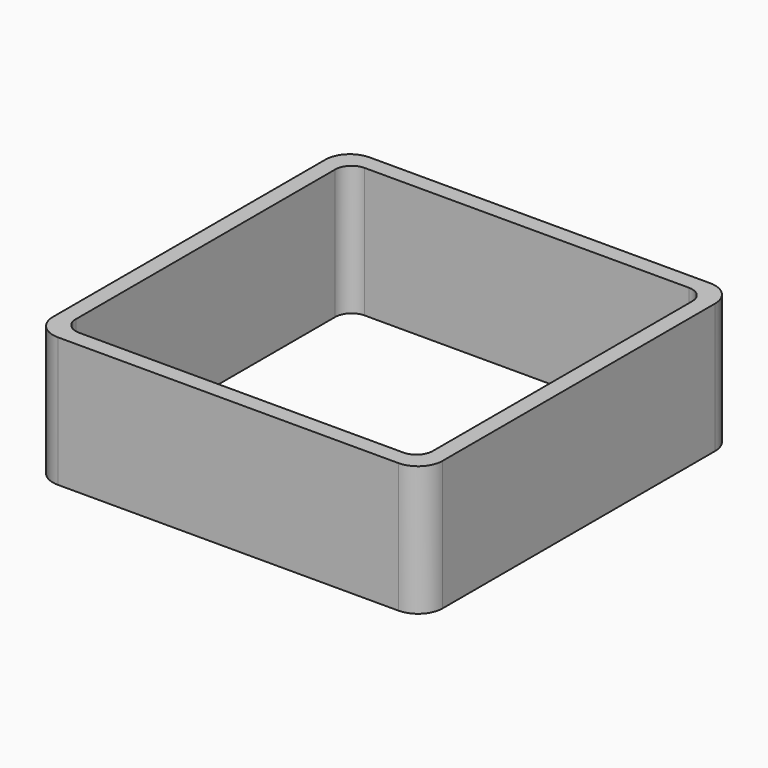
from build123d import *

# Parameters (mm, degrees)
EXTRUDE_DEPTH = 50


with BuildPart() as part:
    # Sketch → Extrude (new body)
    with BuildSketch(Plane.XY):
        with BuildLine():
            Line((-65.55, 75), (65.55, 75))
            ThreePointArc((75, 65.55), (72.232159, 72.232159), (65.55, 75))
            Line((75, 65.55), (75, -65.55))
            ThreePointArc((65.55, -75), (72.232159, -72.232159), (75, -65.55))
            Line((65.55, -75), (-65.55, -75))
            ThreePointArc((-75, -65.55), (-72.232159, -72.232159), (-65.55, -75))
            Line((-75, -65.55), (-75, 65.55))
            ThreePointArc((-65.55, 75), (-72.232159, 72.232159), (-75, 65.55))
        make_face()
        with BuildLine():
            Line((-62.4, 68.7), (62.4, 68.7))
            ThreePointArc((68.7, 62.4), (66.854773, 66.854773), (62.4, 68.7))
            Line((68.7, 62.4), (68.7, -62.4))
            ThreePointArc((62.4, -68.7), (66.854773, -66.854773), (68.7, -62.4))
            Line((62.4, -68.7), (-62.4, -68.7))
            ThreePointArc((-68.7, -62.4), (-66.854773, -66.854773), (-62.4, -68.7))
            Line((-68.7, -62.4), (-68.7, 62.4))
            ThreePointArc((-62.4, 68.7), (-66.854773, 66.854773), (-68.7, 62.4))
        make_face(mode=Mode.SUBTRACT)
    extrude(amount=EXTRUDE_DEPTH)


solid = part.part
